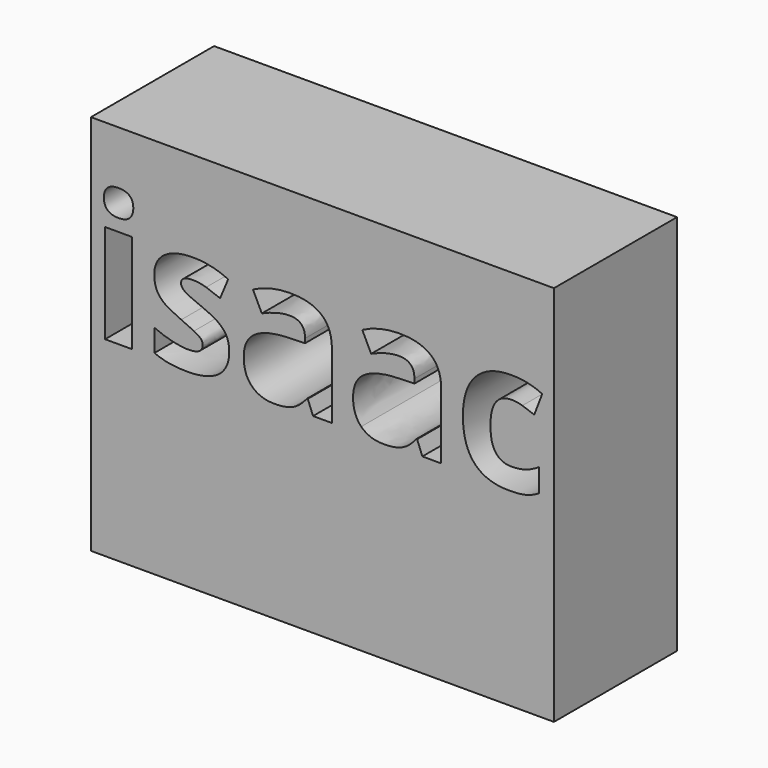
from build123d import *

# Parameters (mm, degrees)
F0_W     = 76.4226376876
F0_H     = 63.0263250266
F0_W_2   = 4.4484958292
F0_H_2   = 16.3095954117
F1_DEPTH = 25.4


with BuildPart() as f1:
    # F0 (on Front) → F1 (new body)
    with BuildSketch(Plane.XZ):
        with Locations((38.2113188438, 31.5131625133)):
            Rectangle(F0_W, F0_H)
        with Locations((4.5581911619, 39.6679602192)):
            Rectangle(F0_W_2, F0_H_2, mode=Mode.SUBTRACT)
        with BuildLine():
            add(Edge.make_bspline(
                [(22.4058551735, 38.4426400144), (22.8306328445, 37.5674112967), (22.8306328445, 36.3584286946)],
                knots=[0, 0, 0, 1, 1, 1], degree=2))
            add(Edge.make_bspline(
                [(22.8306328445, 36.3584286946), (22.8306328445, 33.8471057606), (21.0871772388, 32.5330957124)],
                knots=[0, 0, 0, 1, 1, 1], degree=2))
            add(Edge.make_bspline(
                [(21.0871772388, 32.5330957124), (19.3437216331, 31.2190856642), (15.8708140812, 31.2190856642)],
                knots=[0, 0, 0, 1, 1, 1], degree=2))
            add(Edge.make_bspline(
                [(15.8708140812, 31.2190856642), (14.0923493268, 31.2190856642), (12.8366878598, 31.4618157619)],
                knots=[0, 0, 0, 1, 1, 1], degree=2))
            add(Edge.make_bspline(
                [(12.8366878598, 31.4618157619), (11.5810263928, 31.7045458596), (10.4887409531, 32.171334509)],
                knots=[0, 0, 0, 1, 1, 1], degree=2))
            Line((10.4887409531, 32.171334509), (10.4887409531, 35.8449611802))
            add(Edge.make_bspline(
                [(10.4887409531, 35.8449611802), (11.7257308741, 35.2614753684), (13.2801370768, 34.8670389596)],
                knots=[0, 0, 0, 1, 1, 1], degree=2))
            add(Edge.make_bspline(
                [(13.2801370768, 34.8670389596), (14.8345432795, 34.4726025508), (16.0155185626, 34.4726025508)],
                knots=[0, 0, 0, 1, 1, 1], degree=2))
            add(Edge.make_bspline(
                [(16.0155185626, 34.4726025508), (18.4381516532, 34.4726025508), (18.4381516532, 35.8729684992)],
                knots=[0, 0, 0, 1, 1, 1], degree=2))
            add(Edge.make_bspline(
                [(18.4381516532, 35.8729684992), (18.4381516532, 36.400439673), (18.1160674851, 36.7295256709)],
                knots=[0, 0, 0, 1, 1, 1], degree=2))
            add(Edge.make_bspline(
                [(18.1160674851, 36.7295256709), (17.793983317, 37.0586116688), (17.0074444426, 37.4740535668)],
                knots=[0, 0, 0, 1, 1, 1], degree=2))
            add(Edge.make_bspline(
                [(17.0074444426, 37.4740535668), (16.2209055683, 37.8894954648), (14.9092294634, 38.4403060711)],
                knots=[0, 0, 0, 1, 1, 1], degree=2))
            add(Edge.make_bspline(
                [(14.9092294634, 38.4403060711), (13.0280712061, 39.2291788887), (12.1435067154, 39.9013545439)],
                knots=[0, 0, 0, 1, 1, 1], degree=2))
            add(Edge.make_bspline(
                [(12.1435067154, 39.9013545439), (11.2589422247, 40.5735301991), (10.8598379294, 41.4417570871)],
                knots=[0, 0, 0, 1, 1, 1], degree=2))
            add(Edge.make_bspline(
                [(10.8598379294, 41.4417570871), (10.4607336341, 42.3099839751), (10.4607336341, 43.5749812151)],
                knots=[0, 0, 0, 1, 1, 1], degree=2))
            add(Edge.make_bspline(
                [(10.4607336341, 43.5749812151), (10.4607336341, 45.7502163215), (12.1435067154, 46.9381934343)],
                knots=[0, 0, 0, 1, 1, 1], degree=2))
            add(Edge.make_bspline(
                [(12.1435067154, 46.9381934343), (13.8262797967, 48.1261705472), (16.9210885425, 48.1261705472)],
                knots=[0, 0, 0, 1, 1, 1], degree=2))
            add(Edge.make_bspline(
                [(16.9210885425, 48.1261705472), (19.8665249205, 48.1261705472), (22.6532531577, 46.8425017612)],
                knots=[0, 0, 0, 1, 1, 1], degree=2))
            Line((22.6532531577, 46.8425017612), (21.3135697338, 43.6356637395))
            add(Edge.make_bspline(
                [(21.3135697338, 43.6356637395), (20.0859155858, 44.1584670269), (19.021637465, 44.4945548545)],
                knots=[0, 0, 0, 1, 1, 1], degree=2))
            add(Edge.make_bspline(
                [(19.021637465, 44.4945548545), (17.9573593443, 44.8306426821), (16.8464023586, 44.8306426821)],
                knots=[0, 0, 0, 1, 1, 1], degree=2))
            add(Edge.make_bspline(
                [(16.8464023586, 44.8306426821), (14.8765542579, 44.8306426821), (14.8765542579, 43.7663645613)],
                knots=[0, 0, 0, 1, 1, 1], degree=2))
            add(Edge.make_bspline(
                [(14.8765542579, 43.7663645613), (14.8765542579, 43.16887509), (15.5113868212, 42.7300937596)],
                knots=[0, 0, 0, 1, 1, 1], degree=2))
            add(Edge.make_bspline(
                [(15.5113868212, 42.7300937596), (16.1462193844, 42.2913124291), (18.2934471719, 41.4324213141)],
                knots=[0, 0, 0, 1, 1, 1], degree=2))
            add(Edge.make_bspline(
                [(18.2934471719, 41.4324213141), (20.2026127481, 40.657552156), (21.0918451253, 39.987710444)],
                knots=[0, 0, 0, 1, 1, 1], degree=2))
            add(Edge.make_bspline(
                [(21.0918451253, 39.987710444), (21.9810775025, 39.3178687321), (22.4058551735, 38.4426400144)],
                knots=[0, 0, 0, 1, 1, 1], degree=2))
        make_face(mode=Mode.SUBTRACT)
        with BuildLine():
            Line((39.76105716, 31.5131625133), (36.6569126412, 31.5131625133))
            Line((36.6569126412, 31.5131625133), (35.7933536397, 33.7304085982))
            Line((35.7933536397, 33.7304085982), (35.6766564773, 33.7304085982))
            add(Edge.make_bspline(
                [(35.6766564773, 33.7304085982), (34.5563637186, 32.3160389904), (33.3660526625, 31.7675623273)],
                knots=[0, 0, 0, 1, 1, 1], degree=2))
            add(Edge.make_bspline(
                [(33.3660526625, 31.7675623273), (32.1757416065, 31.2190856642), (30.2665760302, 31.2190856642)],
                knots=[0, 0, 0, 1, 1, 1], degree=2))
            add(Edge.make_bspline(
                [(30.2665760302, 31.2190856642), (27.9186291235, 31.2190856642), (26.5696099266, 32.5634369746)],
                knots=[0, 0, 0, 1, 1, 1], degree=2))
            add(Edge.make_bspline(
                [(26.5696099266, 32.5634369746), (25.2205907297, 33.907788285), (25.2205907297, 36.3864360136)],
                knots=[0, 0, 0, 1, 1, 1], degree=2))
            add(Edge.make_bspline(
                [(25.2205907297, 36.3864360136), (25.2205907297, 38.9817809045), (27.036398576, 40.214102939)],
                knots=[0, 0, 0, 1, 1, 1], degree=2))
            add(Edge.make_bspline(
                [(27.036398576, 40.214102939), (28.8522064224, 41.4464249736), (32.5118294341, 41.5771257954)],
                knots=[0, 0, 0, 1, 1, 1], degree=2))
            Line((32.5118294341, 41.5771257954), (35.3452365362, 41.6658156388))
            Line((35.3452365362, 41.6658156388), (35.3452365362, 42.3800022725))
            add(Edge.make_bspline(
                [(35.3452365362, 42.3800022725), (35.3452365362, 44.858650001), (32.8059062832, 44.858650001)],
                knots=[0, 0, 0, 1, 1, 1], degree=2))
            add(Edge.make_bspline(
                [(32.8059062832, 44.858650001), (30.850061842, 44.858650001), (28.2080380861, 43.6776747179)],
                knots=[0, 0, 0, 1, 1, 1], degree=2))
            Line((28.2080380861, 43.6776747179), (26.7376538404, 46.6837936204))
            add(Edge.make_bspline(
                [(26.7376538404, 46.6837936204), (29.5523893966, 48.1588457526), (32.9786180835, 48.1588457526)],
                knots=[0, 0, 0, 1, 1, 1], degree=2))
            add(Edge.make_bspline(
                [(32.9786180835, 48.1588457526), (36.2601422891, 48.1588457526), (38.0105997246, 46.7281385421)],
                knots=[0, 0, 0, 1, 1, 1], degree=2))
            add(Edge.make_bspline(
                [(38.0105997246, 46.7281385421), (39.76105716, 45.2974313315), (39.76105716, 42.3800022725)],
                knots=[0, 0, 0, 1, 1, 1], degree=2))
            Line((39.76105716, 42.3800022725), (39.76105716, 31.5131625133))
        make_face(mode=Mode.SUBTRACT)
        with BuildLine():
            add(Edge.make_bspline(
                [(4.5651929916, 49.8486206636), (2.142559901, 49.8486206636), (2.142559901, 52.0378594296)],
                knots=[0, 0, 0, 1, 1, 1], degree=2))
            add(Edge.make_bspline(
                [(2.142559901, 52.0378594296), (2.142559901, 54.213094536), (4.5651929916, 54.213094536)],
                knots=[0, 0, 0, 1, 1, 1], degree=2))
            add(Edge.make_bspline(
                [(4.5651929916, 54.213094536), (6.9878260822, 54.213094536), (6.9878260822, 52.0378594296)],
                knots=[0, 0, 0, 1, 1, 1], degree=2))
            add(Edge.make_bspline(
                [(6.9878260822, 52.0378594296), (6.9878260822, 51.0015886278), (6.3833347812, 50.4251046457)],
                knots=[0, 0, 0, 1, 1, 1], degree=2))
            add(Edge.make_bspline(
                [(6.3833347812, 50.4251046457), (5.7788434802, 49.8486206636), (4.5651929916, 49.8486206636)],
                knots=[0, 0, 0, 1, 1, 1], degree=2))
        make_face(mode=Mode.SUBTRACT)
        with BuildLine():
            Line((57.8071063477, 31.5131625133), (54.7029618288, 31.5131625133))
            Line((54.7029618288, 31.5131625133), (53.8394028273, 33.7304085982))
            Line((53.8394028273, 33.7304085982), (53.722705665, 33.7304085982))
            add(Edge.make_bspline(
                [(53.722705665, 33.7304085982), (52.6024129063, 32.3160389904), (51.4121018502, 31.7675623273)],
                knots=[0, 0, 0, 1, 1, 1], degree=2))
            add(Edge.make_bspline(
                [(51.4121018502, 31.7675623273), (50.2217907941, 31.2190856642), (48.3126252179, 31.2190856642)],
                knots=[0, 0, 0, 1, 1, 1], degree=2))
            add(Edge.make_bspline(
                [(48.3126252179, 31.2190856642), (45.9646783112, 31.2190856642), (44.6156591142, 32.5634369746)],
                knots=[0, 0, 0, 1, 1, 1], degree=2))
            add(Edge.make_bspline(
                [(44.6156591142, 32.5634369746), (43.2666399173, 33.907788285), (43.2666399173, 36.3864360136)],
                knots=[0, 0, 0, 1, 1, 1], degree=2))
            add(Edge.make_bspline(
                [(43.2666399173, 36.3864360136), (43.2666399173, 38.9817809045), (45.0824477637, 40.214102939)],
                knots=[0, 0, 0, 1, 1, 1], degree=2))
            add(Edge.make_bspline(
                [(45.0824477637, 40.214102939), (46.89825561, 41.4464249736), (50.5578786217, 41.5771257954)],
                knots=[0, 0, 0, 1, 1, 1], degree=2))
            Line((50.5578786217, 41.5771257954), (53.3912857239, 41.6658156388))
            Line((53.3912857239, 41.6658156388), (53.3912857239, 42.3800022725))
            add(Edge.make_bspline(
                [(53.3912857239, 42.3800022725), (53.3912857239, 44.858650001), (50.8519554709, 44.858650001)],
                knots=[0, 0, 0, 1, 1, 1], degree=2))
            add(Edge.make_bspline(
                [(50.8519554709, 44.858650001), (48.8961110297, 44.858650001), (46.2540872738, 43.6776747179)],
                knots=[0, 0, 0, 1, 1, 1], degree=2))
            Line((46.2540872738, 43.6776747179), (44.783703028, 46.6837936204))
            add(Edge.make_bspline(
                [(44.783703028, 46.6837936204), (47.5984385842, 48.1588457526), (51.0246672712, 48.1588457526)],
                knots=[0, 0, 0, 1, 1, 1], degree=2))
            add(Edge.make_bspline(
                [(51.0246672712, 48.1588457526), (54.3061914768, 48.1588457526), (56.0566489122, 46.7281385421)],
                knots=[0, 0, 0, 1, 1, 1], degree=2))
            add(Edge.make_bspline(
                [(56.0566489122, 46.7281385421), (57.8071063477, 45.2974313315), (57.8071063477, 42.3800022725)],
                knots=[0, 0, 0, 1, 1, 1], degree=2))
            Line((57.8071063477, 42.3800022725), (57.8071063477, 31.5131625133))
        make_face(mode=Mode.SUBTRACT)
        with BuildLine():
            add(Edge.make_bspline(
                [(71.7920942851, 31.4828212511), (70.6904730724, 31.2190856642), (69.0147018209, 31.2190856642)],
                knots=[0, 0, 0, 1, 1, 1], degree=2))
            add(Edge.make_bspline(
                [(69.0147018209, 31.2190856642), (61.4013789484, 31.2190856642), (61.4013789484, 39.5792703758)],
                knots=[0, 0, 0, 1, 1, 1], degree=2))
            add(Edge.make_bspline(
                [(61.4013789484, 39.5792703758), (61.4013789484, 43.7383572424), (63.4715866087, 45.9322638948)],
                knots=[0, 0, 0, 1, 1, 1], degree=2))
            add(Edge.make_bspline(
                [(63.4715866087, 45.9322638948), (65.541794269, 48.1261705472), (69.4068042864, 48.1261705472)],
                knots=[0, 0, 0, 1, 1, 1], degree=2))
            add(Edge.make_bspline(
                [(69.4068042864, 48.1261705472), (72.2355435021, 48.1261705472), (74.4854647924, 47.019881448)],
                knots=[0, 0, 0, 1, 1, 1], degree=2))
            Line((74.4854647924, 47.019881448), (73.169120801, 43.5749812151))
            add(Edge.make_bspline(
                [(73.169120801, 43.5749812151), (72.1188463397, 43.9997588861), (71.215610303, 44.2704963027)],
                knots=[0, 0, 0, 1, 1, 1], degree=2))
            add(Edge.make_bspline(
                [(71.215610303, 44.2704963027), (70.3123742664, 44.5412337194), (69.4068042864, 44.5412337194)],
                knots=[0, 0, 0, 1, 1, 1], degree=2))
            add(Edge.make_bspline(
                [(69.4068042864, 44.5412337194), (65.9338967345, 44.5412337194), (65.9338967345, 39.6072776947)],
                knots=[0, 0, 0, 1, 1, 1], degree=2))
            add(Edge.make_bspline(
                [(65.9338967345, 39.6072776947), (65.9338967345, 34.8226940379), (69.4068042864, 34.8226940379)],
                knots=[0, 0, 0, 1, 1, 1], degree=2))
            add(Edge.make_bspline(
                [(69.4068042864, 34.8226940379), (70.6904730724, 34.8226940379), (71.7850924554, 35.1657836953)],
                knots=[0, 0, 0, 1, 1, 1], degree=2))
            add(Edge.make_bspline(
                [(71.7850924554, 35.1657836953), (72.8797118383, 35.5088733526), (73.971997278, 36.2417315322)],
                knots=[0, 0, 0, 1, 1, 1], degree=2))
            Line((73.971997278, 36.2417315322), (73.971997278, 32.4327361527))
            add(Edge.make_bspline(
                [(73.971997278, 32.4327361527), (72.8937154978, 31.746556838), (71.7920942851, 31.4828212511)],
                knots=[0, 0, 0, 1, 1, 1], degree=2))
        make_face(mode=Mode.SUBTRACT)
    extrude(amount=F1_DEPTH)


solid = f1.part
